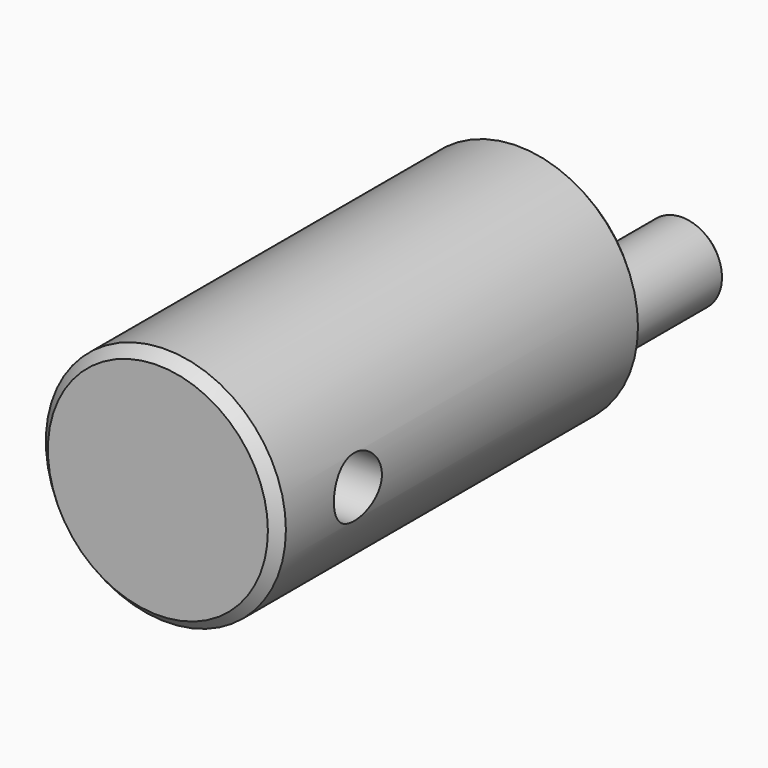
from build123d import *

# Parameters (mm, degrees)
F0_R     = 6
F1_DEPTH = 23
F2_SIZE  = 0.5
F3_R     = 1.5
F4_DEPTH = 12.5
F5_R     = 2
F6_DEPTH = 10
F7_SIZE  = 0.25


with BuildPart() as f1:
    # F0 (on Front) → F1 (new body)
    with BuildSketch(Plane.XZ):
        Circle(F0_R)
    extrude(amount=F1_DEPTH)

    # F2
    f2_edges = [f1.edges().sort_by_distance(p)[0] for p in [
        (-6, -23, 0),
        (-6, 0, 0),
    ]]
    chamfer(f2_edges, length=F2_SIZE)

    # F3 (on Right) → F4 (cut, symmetric)
    with BuildSketch(Plane.YZ):
        with Locations((-18, 0)):
            Circle(F3_R)
    extrude(amount=F4_DEPTH, both=True, mode=Mode.SUBTRACT)

    # F5 (on face) → F6 (join)
    with BuildSketch(Plane(origin=(0, 0, 0), x_dir=(-1, 0, 0), z_dir=(0, 1, 0))):
        with Locations((0, -3.3)):
            Circle(F5_R)
    extrude(amount=F6_DEPTH)

    # F7
    f7_edges = [f1.edges().sort_by_distance(p)[0] for p in [
        (2, 10, -3.3),
    ]]
    chamfer(f7_edges, length=F7_SIZE)


solid = f1.part
